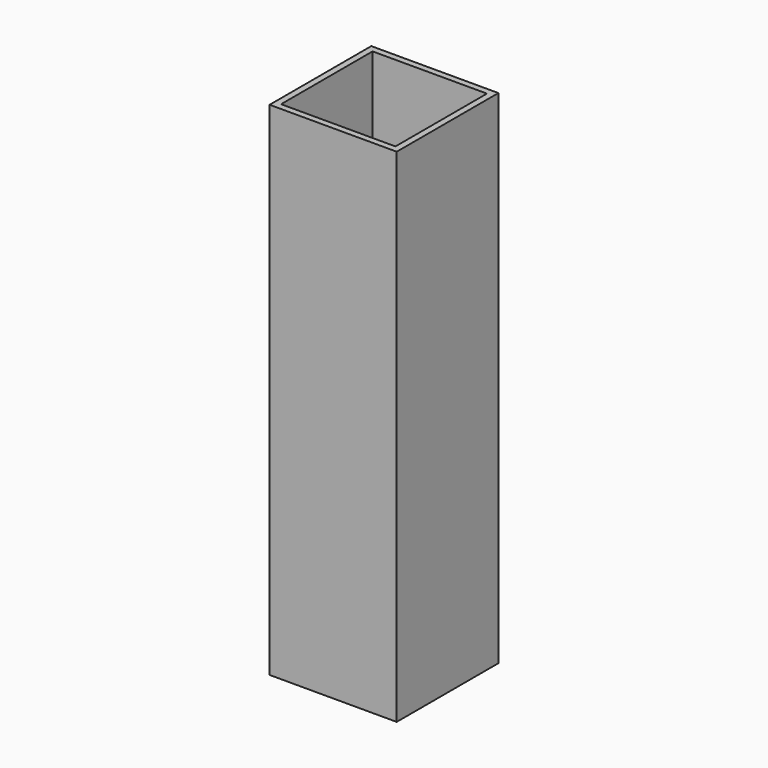
from build123d import *

# Parameters (mm, degrees)
SKETCH_W   = 40
SKETCH_H   = 40
SKETCH_W_2 = 36
SKETCH_H_2 = 36
PAD_DEPTH  = 158


with BuildPart() as part:
    # Sketch → Pad (new body)
    with BuildSketch(Plane.XY):
        with Locations((20, 20)):
            Rectangle(SKETCH_W, SKETCH_H)
        with Locations((20, 20)):
            Rectangle(SKETCH_W_2, SKETCH_H_2, mode=Mode.SUBTRACT)
    extrude(amount=PAD_DEPTH)


solid = part.part
